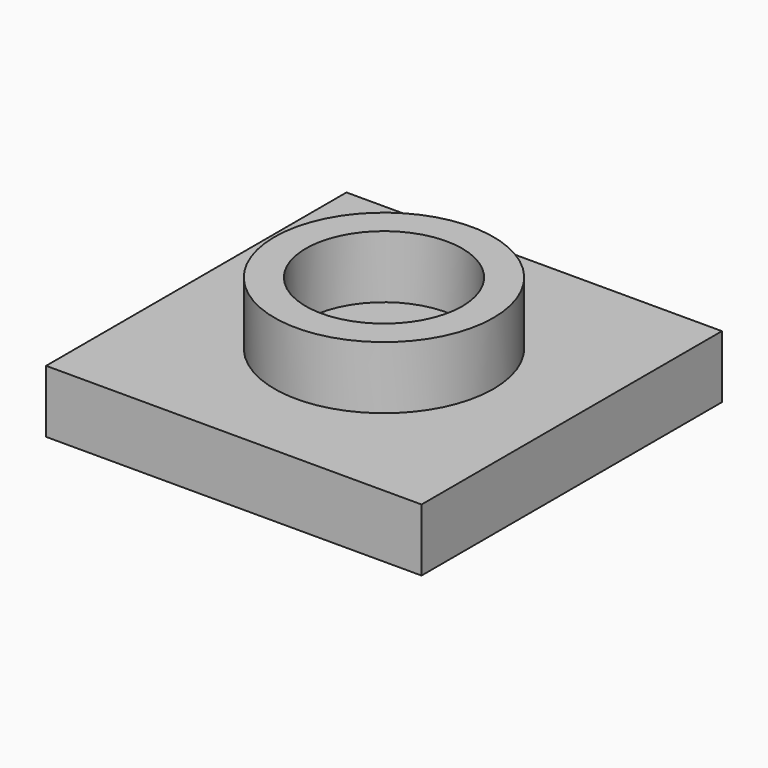
from build123d import *

# Parameters (mm, degrees)
SKETCH_W      = 60
SKETCH_H      = 60
PAD_DEPTH     = 10
SKETCH001_R   = 17.5
SKETCH001_R_2 = 12.5
PAD001_DEPTH  = 10


with BuildPart() as obj1:
    # Sketch → Pad (new body)
    with BuildSketch(Plane.XY):
        Rectangle(SKETCH_W, SKETCH_H)
    extrude(amount=PAD_DEPTH)


with BuildPart() as body001:
    # Sketch001 → Pad001 (new body)
    with BuildSketch(Plane.XY):
        Circle(SKETCH001_R)
        Circle(SKETCH001_R_2, mode=Mode.SUBTRACT)
    extrude(amount=PAD001_DEPTH)


with BuildPart() as body001_1:
    # Body001 placement: moved
    add(body001.part.moved(Location((0, 0, 10))))


solid = Compound([obj1.part, body001_1.part])
